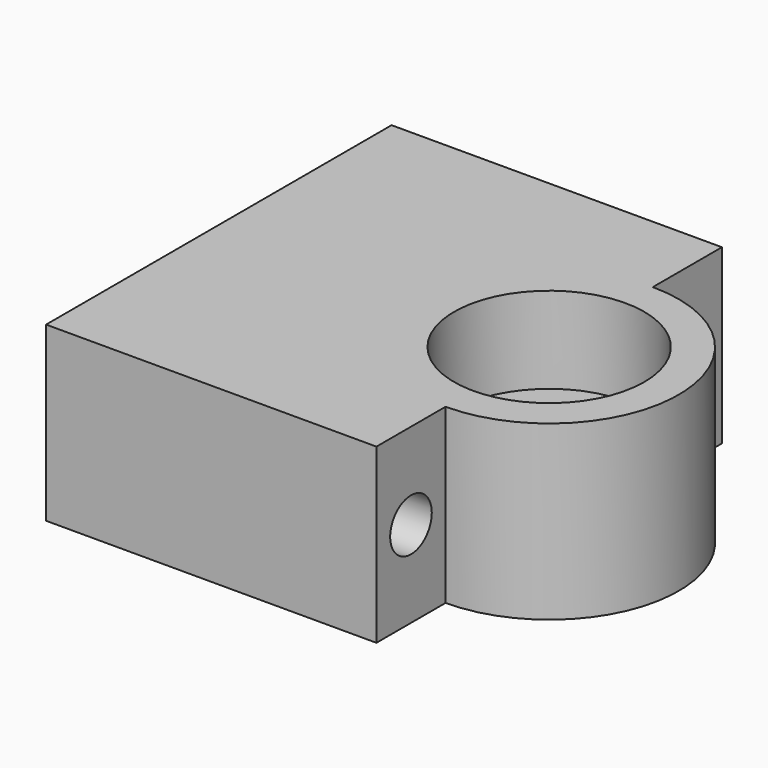
from build123d import *

# Parameters (mm, degrees)
F1_DEPTH  = 20
F2_R      = 11.01
F3_DEPTH  = 10
F4_R      = 3.01
F5_DEPTH  = 15
F6_R      = 3.01
F7_DEPTH  = 15
F8_R      = 2.01
F9_DEPTH  = 23.251
F10_R     = 2.01
F11_DEPTH = 23.251


with BuildPart() as f1:
    # F0 (on Top) → F1 (new body)
    with BuildSketch(Plane.XY):
        with BuildLine():
            Line((0, 50), (0, 0))
            Line((0, 0), (26.933724, 0))
            Line((26.933724, 0), (38.25, 0))
            Line((38.25, 0), (38.25, 10))
            ThreePointArc((38.25, 10), (53.25, 25), (38.25, 40))
            Line((38.25, 40), (38.25, 50))
            Line((38.25, 50), (0, 50))
        make_face()
    extrude(amount=F1_DEPTH)

    # F2 (on face) → F3 (cut)
    with BuildSketch(Plane.XY.offset(20)):
        with Locations((38.25, 25)):
            Circle(F2_R)
    extrude(amount=-F3_DEPTH, mode=Mode.SUBTRACT)

    # F4 (on face) → F5 (cut)
    with BuildSketch(Plane.YZ.offset(38.25)):
        with Locations((45, 10)):
            Circle(F4_R)
    extrude(amount=-F5_DEPTH, mode=Mode.SUBTRACT)

    # F6 (on face) → F7 (cut)
    with BuildSketch(Plane.YZ.offset(38.25)):
        with Locations((5, 10)):
            Circle(F6_R)
    extrude(amount=-F7_DEPTH, mode=Mode.SUBTRACT)

    # F8 (on face) → F9 (cut, through all)
    with BuildSketch(Plane.YZ.offset(23.25)):
        with Locations((5, 10)):
            Circle(F8_R)
    extrude(amount=-F9_DEPTH, mode=Mode.SUBTRACT)

    # F10 (on face) → F11 (cut, through all)
    with BuildSketch(Plane.YZ.offset(23.25)):
        with Locations((45, 10)):
            Circle(F10_R)
    extrude(amount=-F11_DEPTH, mode=Mode.SUBTRACT)


solid = f1.part
